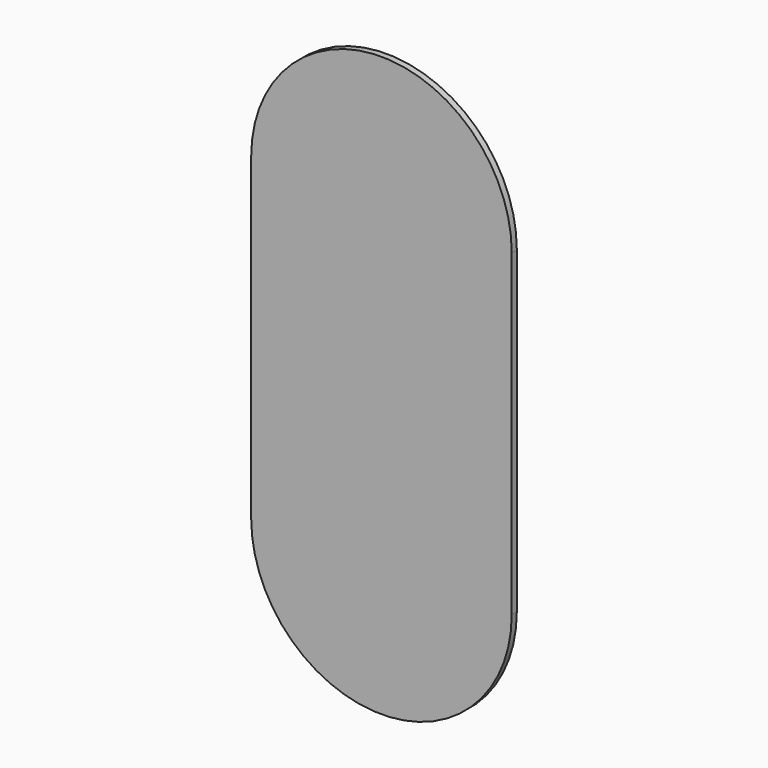
from build123d import *

# Parameters (mm, degrees)
F1_DEPTH = 20
F2_SCALE = 0.5


with BuildPart() as f1:
    # F0 (on Front) → F1 (new body)
    with BuildSketch(Plane.XZ):
        with BuildLine():
            Line((0, 300.8657972591), (0, -699.1342027409))
            ThreePointArc((0, -699.1342027409), (409.0908785291, -1108.22508127), (818.1817570582, -699.1342027409))
            Line((818.1817570582, -699.1342027409), (818.1817570582, 300.8657972591))
            ThreePointArc((818.1817570582, 300.8657972591), (409.0908785291, 709.9566757882), (0, 300.8657972591))
        make_face()
    extrude(amount=F1_DEPTH)


with BuildPart() as f1_1:
    # F2: moved
    add(f1.part.scale(F2_SCALE))


solid = f1_1.part
